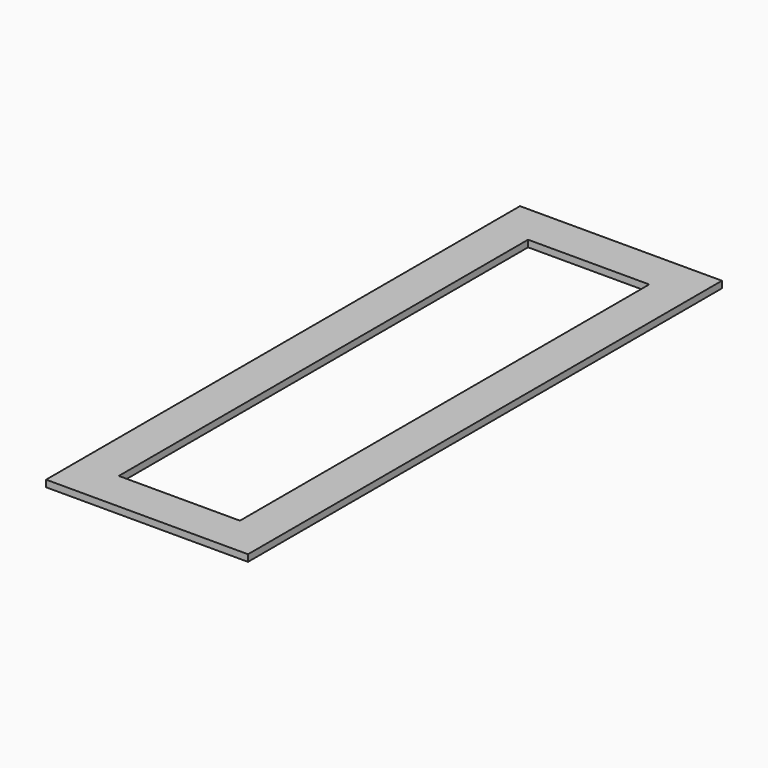
from build123d import *

# Parameters (mm, degrees)
F0_W     = 9
F0_H     = 38
F0_W_2   = 15
F0_H_2   = 44
F1_DEPTH = 0.5
F2_DEPTH = 25


with BuildPart() as f1:
    # F0 (on Top) → F1 (new body)
    with BuildSketch(Plane.XY):
        Rectangle(F0_W, F0_H)
        Rectangle(F0_W_2, F0_H_2)
        Rectangle(F0_W, F0_H, mode=Mode.SUBTRACT)
    extrude(amount=F1_DEPTH)

    # F0 (on Top) → F2 (cut)
    with BuildSketch(Plane.XY):
        Rectangle(F0_W, F0_H)
    extrude(amount=F2_DEPTH, mode=Mode.SUBTRACT)


solid = f1.part
